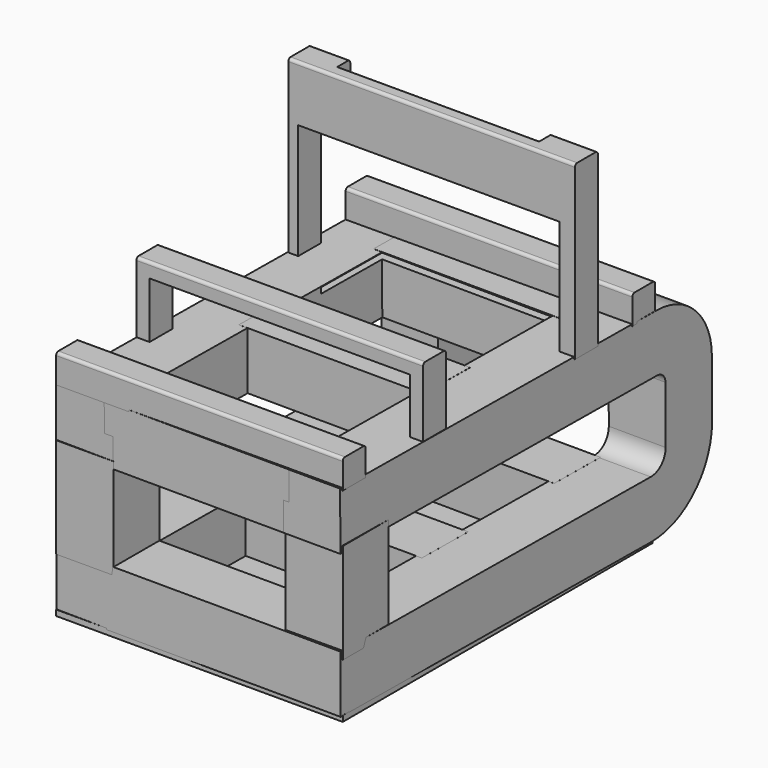
from build123d import *

# Parameters (mm, degrees)
BOX003_W                  = 100
BOX003_H                  = 10
BOX003_DEPTH              = 25
SKETCH003_W               = 90.806315
SKETCH003_H               = 20.169361
POCKET_DEPTH              = 10.001
BOX005_W                  = 100
BOX005_H                  = 10
BOX005_DEPTH              = 60
SKETCH004_W               = 91.218086
SKETCH004_H               = 40.361668
POCKET001_DEPTH           = 10.001
SKETCH005_W               = 70.455691
SKETCH005_H               = 22.66835
POCKET002_DEPTH           = 5
BOX004_W                  = 100
BOX004_H                  = 10
BOX004_DEPTH              = 10
BOX001_W                  = 65
BOX001_H                  = 20
BOX001_DEPTH              = 20
ARRAY001_Y_COUNT          = 3
ARRAY001_Y_PITCH          = 58
BOX_W                     = 65
BOX_H                     = 20
BOX_DEPTH                 = 20
ARRAY_Y_COUNT             = 3
ARRAY_Y_PITCH             = 57
SKETCH_W                  = 19.999652
SKETCH_H                  = 20.000471
FUSION002_ROLL_ANGLE      = -0.066054
FUSION002_PITCH_ANGLE     = -0.217392
FUSION002_PLACEMENT_ANGLE = -0.581856
BOX002_W                  = 100
BOX002_H                  = 10
BOX002_DEPTH              = 10
BOX006_W                  = 20
BOX006_H                  = 20
BOX006_DEPTH              = 35
ARRAY002_X_COUNT          = 2
ARRAY002_X_PITCH          = 80
BOX007_W                  = 100
BOX007_H                  = 135
BOX007_DEPTH              = 2
FILLET008_R               = 1
FILLET009_R               = 1
SKETCH006_W               = 83.27878
SKETCH006_H               = 48.60762
POCKET003_DEPTH           = 2


with BuildPart() as pocket:
    # Box003 → Box003 (new body)
    with BuildSketch(Plane(origin=(-10, 35, 60), x_dir=(1, 0, 0), z_dir=(0, 0, 1))):
        with Locations((50, 5)):
            Rectangle(BOX003_W, BOX003_H)
    extrude(amount=BOX003_DEPTH)

    # Sketch003 → Pocket (cut, through all)
    with BuildSketch(Plane(origin=(-10, 35, 60), x_dir=(1, 0, 0), z_dir=(0, -1, 0))):
        with Locations((50.00284, 9.885892)):
            Rectangle(SKETCH003_W, SKETCH003_H)
    extrude(amount=-POCKET_DEPTH, mode=Mode.SUBTRACT)


with BuildPart() as pocket002:
    # Box005 → Box005 (new body)
    with BuildSketch(Plane(origin=(-9, 100, 60), x_dir=(1, 0, 0), z_dir=(0, 0, 1))):
        with Locations((50, 5)):
            Rectangle(BOX005_W, BOX005_H)
    extrude(amount=BOX005_DEPTH)

    # Sketch004 → Pocket001 (cut, through all)
    with BuildSketch(Plane(origin=(-9, 100, 60), x_dir=(1, 0, 0), z_dir=(0, -1, 0))):
        with Locations((49.065182, 20.377592)):
            Rectangle(SKETCH004_W, SKETCH004_H)
    extrude(amount=-POCKET001_DEPTH, mode=Mode.SUBTRACT)

    # Sketch005 → Pocket002 (cut)
    with BuildSketch(Plane(origin=(-9, 110, 60), x_dir=(-1, 0, 0), z_dir=(0, 1, 0))):
        with Locations((-48.841116, 49.679405)):
            Rectangle(SKETCH005_W, SKETCH005_H)
    extrude(amount=-POCKET002_DEPTH, mode=Mode.SUBTRACT)


with BuildPart() as obj1:
    # Box004 → Box004 (new body)
    with BuildSketch(Plane(origin=(-9, 125, 60), x_dir=(1, 0, 0), z_dir=(0, 0, 1))):
        with Locations((50, 5)):
            Rectangle(BOX004_W, BOX004_H)
    extrude(amount=BOX004_DEPTH)


with BuildPart() as obj2:
    # Box001 → Box001 (new body)
    with BuildSketch(Plane(origin=(7, 0, 40), x_dir=(1, 0, 0), z_dir=(0, 0, 1))):
        with Locations((32.5, 10)):
            Rectangle(BOX001_W, BOX001_H)
    extrude(amount=BOX001_DEPTH)

    # Array001 Y: obj2 ×3


with BuildPart() as obj2_1:
    add(obj2.part)
    with Locations(*[(0, i * ARRAY001_Y_PITCH, 0) for i in range(1, ARRAY001_Y_COUNT)]):
        add(obj2.part)


with BuildPart() as obj3:
    # Box → Box (new body)
    with BuildSketch(Plane(origin=(7, 0, -10), x_dir=(1, 0, 0), z_dir=(0, 0, 1))):
        with Locations((32.5, 10)):
            Rectangle(BOX_W, BOX_H)
    extrude(amount=BOX_DEPTH)

    # Array Y: obj3 ×3


with BuildPart() as obj3_1:
    add(obj3.part)
    with Locations(*[(0, i * ARRAY_Y_PITCH, 0) for i in range(1, ARRAY_Y_COUNT)]):
        add(obj3.part)


with BuildPart() as obj4:
    # Sweep: sweep along a path in Sketch001
    with BuildLine(Plane.YZ) as sweep_path:
        Line((0, 0), (133.575411, -0.011573))
        ThreePointArc((133.575411, -0.011573), (145.205679, 4.807053), (150.018155, 16.439868))
        Line((150.018155, 16.439868), (150.005868, 36.408139))
        ThreePointArc((150.005868, 36.408139), (146.034392, 45.985141), (136.455834, 49.952864))
        Line((136.455834, 49.952864), (0, 49.98336))
    # Sketch → Sweep (sweep)
    with BuildSketch(Plane.XZ):
        with Locations((0.000263, -0.000434)):
            Rectangle(SKETCH_W, SKETCH_H)
    sweep(path=sweep_path.line)


with BuildPart() as obj5:
    # Fusion base: copy of obj4
    add(obj4.part)

    # Fusion: union obj3
    add(obj3_1.part)


with BuildPart() as obj6:
    # Part__Mirroring: instance of obj4
    add(obj4.part.mirror(Plane(origin=(0, 0, 0), x_dir=(0, -1, 0), z_dir=(1, 0, 0))))


with BuildPart() as obj6_1:
    # Part__Mirroring placement: moved
    add(obj6.part.moved(Location((80, 0, 0))))

    # Fusion001: union obj5
    add(obj5.part)

    # Fusion002: union obj2
    add(obj2_1.part)


with BuildPart() as obj6_2:
    # Fusion002 roll: moved
    add(obj6_1.part.rotate(Axis((0, 0, 0), (1, 0, 0)), FUSION002_ROLL_ANGLE))


with BuildPart() as obj6_3:
    # Fusion002 pitch: moved
    add(obj6_2.part.rotate(Axis((0, 0, 0), (0, 1, 0)), FUSION002_PITCH_ANGLE))


with BuildPart() as obj6_4:
    # Fusion002 placement: moved
    add(obj6_3.part.moved(Location((-0.067416, 0.088109, 0.519024))).rotate(Axis((-0.067416, 0.088109, 0.519024), (0, 0, 1)), FUSION002_PLACEMENT_ANGLE))


with BuildPart() as obj7:
    # Box002 → Box002 (new body)
    with BuildSketch(Plane(origin=(-10, 0, 60), x_dir=(1, 0, 0), z_dir=(0, 0, 1))):
        with Locations((50, 5)):
            Rectangle(BOX002_W, BOX002_H)
    extrude(amount=BOX002_DEPTH)

    # Fusion003: union obj6
    add(obj6_4.part)


with BuildPart() as fusion004:
    # Box006 → Box006 (new body)
    with BuildSketch(Plane(origin=(-10, 0, 8), x_dir=(1, 0, 0), z_dir=(0, 0, 1))):
        with Locations((10, 10)):
            Rectangle(BOX006_W, BOX006_H)
    extrude(amount=BOX006_DEPTH)

    # Array002 X: Fusion004 ×2


with BuildPart() as fusion004_1:
    add(fusion004.part)
    with Locations(*[(i * ARRAY002_X_PITCH, 0, 0) for i in range(1, ARRAY002_X_COUNT)]):
        add(fusion004.part)

    # Fusion004: union obj7
    add(obj7.part)


with BuildPart() as pocket003:
    # Box007 → Box007 (new body)
    with BuildSketch(Plane(origin=(-10, 0, -11), x_dir=(1, 0, 0), z_dir=(0, 0, 1))):
        with Locations((50, 67.5)):
            Rectangle(BOX007_W, BOX007_H)
    extrude(amount=BOX007_DEPTH)

    # Fusion005: union Fusion004
    add(fusion004_1.part)

    # Fusion006: union Pocket, Pocket002, obj1
    add(pocket.part)
    add(pocket002.part)
    add(obj1.part)

    # Fillet008
    fillet008_edges = [pocket003.edges().sort_by_distance(p)[0] for p in [
        (41, 135, 70),
        (41, 125, 70),
        (40, 45, 85),
        (40, 35, 85),
    ]]
    fillet(fillet008_edges, radius=FILLET008_R)

    # Fillet009
    fillet009_edges = [pocket003.edges().sort_by_distance(p)[0] for p in [
        (40, 10, 70),
        (-2.193365, 110, 120),
        (41, 100, 120),
        (40, 0, 70),
        (83.034481, 110, 120),
        (39.841116, 105, 120),
    ]]
    fillet(fillet009_edges, radius=FILLET009_R)

    # Sketch006 → Pocket003 (cut)
    with BuildSketch(Plane.XY.offset(60.196758)):
        with Locations((46.096251, 113.947426)):
            Rectangle(SKETCH006_W, SKETCH006_H)
    extrude(amount=-POCKET003_DEPTH, mode=Mode.SUBTRACT)


solid = pocket003.part
